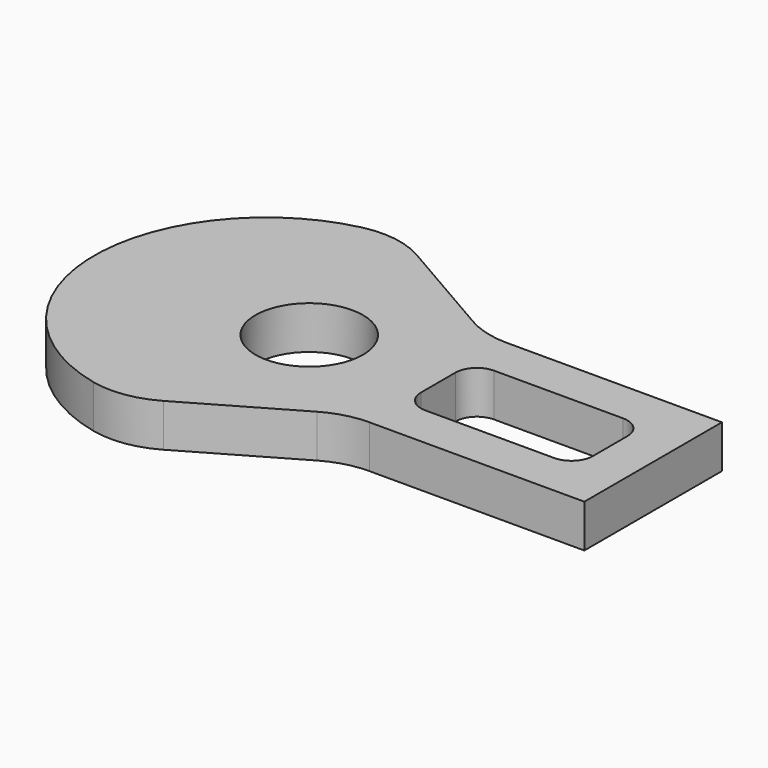
from build123d import *

# Parameters (mm, degrees)
F0_R     = 7.9375
F1_DEPTH = 6.35


with BuildPart() as f1:
    # F0 (on Top) → F1 (new body)
    with BuildSketch(Plane.XY):
        with BuildLine():
            Line((44.45, 12.7), (12.7, 12.7))
            ThreePointArc((12.7, 12.7), (9.412998, 13.132742), (6.35, 14.401477))
            Line((6.35, 14.401477), (-9.194221, 23.375938))
            ThreePointArc((-9.194221, 23.375938), (-13.660619, 24.936955), (-18.388443, 24.75483))
            ThreePointArc((-18.388443, 24.75483), (-38.1, 0), (-18.388443, -24.75483))
            ThreePointArc((-18.388443, -24.75483), (-13.660619, -24.936955), (-9.194221, -23.375938))
            Line((-9.194221, -23.375938), (6.35, -14.401477))
            ThreePointArc((6.35, -14.401477), (9.412998, -13.132742), (12.7, -12.7))
            Line((12.7, -12.7), (44.45, -12.7))
            Line((44.45, -12.7), (44.45, 12.7))
        make_face()
        with Locations((-6.35, 0)):
            Circle(F0_R, mode=Mode.SUBTRACT)
        with BuildLine():
            Line((15.875, 6.35), (34.925, 6.35))
            ThreePointArc((34.925, 6.35), (37.170064, 5.420064), (38.1, 3.175))
            Line((38.1, 3.175), (38.1, -3.175))
            ThreePointArc((38.1, -3.175), (37.170064, -5.420064), (34.925, -6.35))
            Line((34.925, -6.35), (15.875, -6.35))
            ThreePointArc((15.875, -6.35), (13.629936, -5.420064), (12.7, -3.175))
            Line((12.7, -3.175), (12.7, 3.175))
            ThreePointArc((12.7, 3.175), (13.629936, 5.420064), (15.875, 6.35))
        make_face(mode=Mode.SUBTRACT)
    extrude(amount=F1_DEPTH)


solid = f1.part
